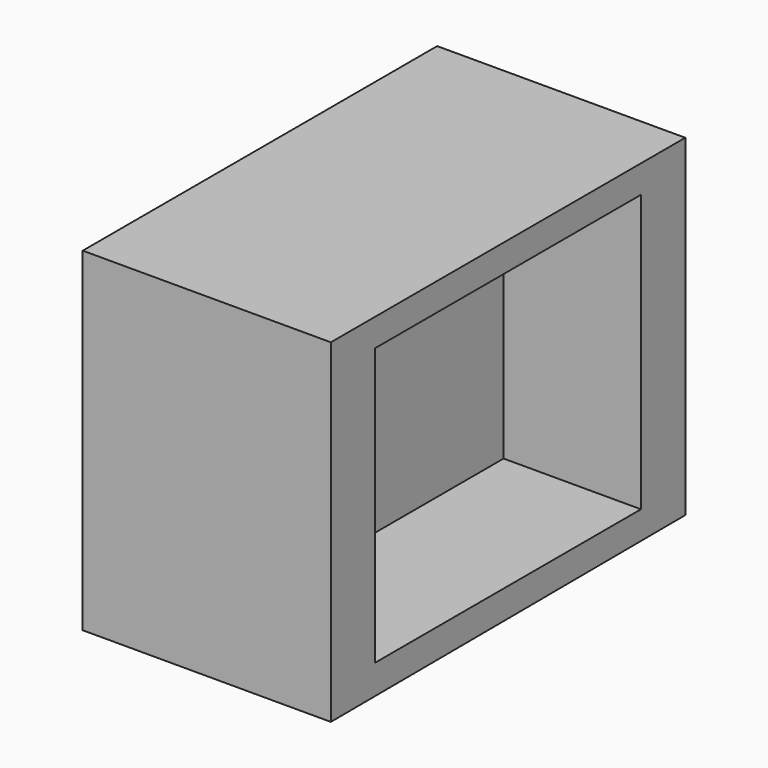
from build123d import *

# Parameters (mm, degrees)
F0_W     = 76.2
F0_H     = 63.5
F1_DEPTH = 56.896
F2_DEPTH = 25.4


with BuildPart() as f1:
    # F0 (on Right) → F1 (new body)
    with BuildSketch(Plane.YZ):
        Polygon((-61.684637, -50.062766), (39.915363, -49.619449), (39.915363, 26.580551), (-61.684637, 26.580551), align=None)
        with Locations((-10.884637, -11.519449)):
            Rectangle(F0_W, F0_H, mode=Mode.SUBTRACT)
    extrude(amount=F1_DEPTH)

    # F0 (on Right) → F2 (join)
    with BuildSketch(Plane.YZ):
        with Locations((-10.884637, -11.519449)):
            Rectangle(F0_W, F0_H)
    extrude(amount=F2_DEPTH)


solid = f1.part
